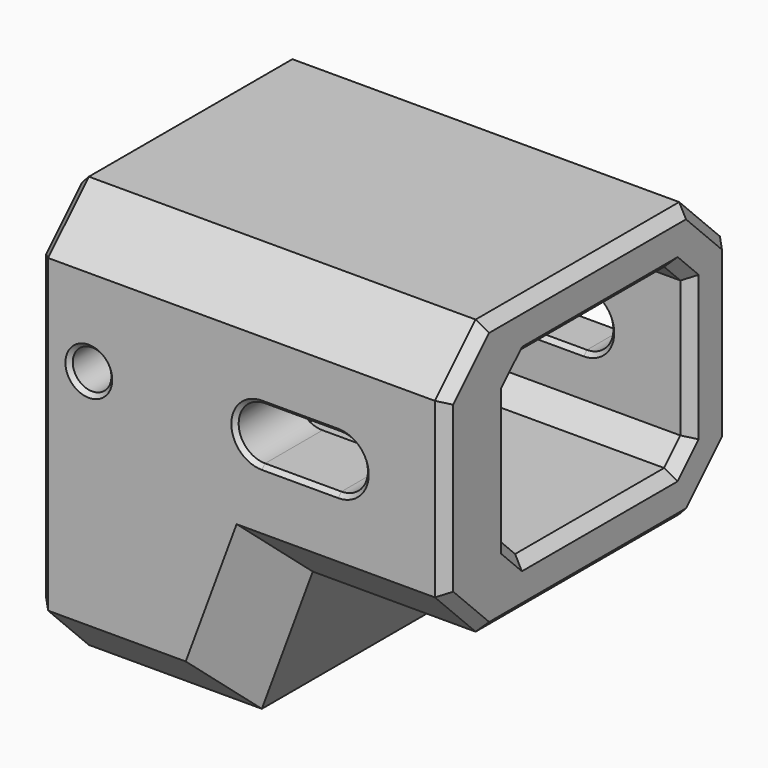
from build123d import *

# Parameters (mm, degrees)
SKETCH006_W     = 35
SKETCH006_H     = 40.5
PAD002_DEPTH    = 13
SKETCH007_W     = 8.1
SKETCH007_H     = 19.3
PAD003_DEPTH    = 6
SKETCH008_W     = 8.1
SKETCH008_H     = 7
PAD004_DEPTH    = 7
SKETCH009_W     = 35
SKETCH009_H     = 40.5
SKETCH009_W_2   = 22.3
SKETCH009_H_2   = 17.4
PAD005_DEPTH    = 27
POCKET004_DEPTH = 35.001
CHAMFER_SIZE    = 5
CHAMFER001_SIZE = 2
POCKET005_DEPTH = 35.001
CHAMFER002_SIZE = 1
CHAMFER003_SIZE = 0.4
SKETCH017_R     = 1.9
POCKET007_DEPTH = 35.001
CHAMFER008_SIZE = 0.4


with BuildPart() as part:
    # Sketch006 → Pad002 (new body)
    with BuildSketch(Plane.YZ):
        with Locations((7.5, 15.25)):
            Rectangle(SKETCH006_W, SKETCH006_H)
        Polygon((-8.1, 19.1), (0, 19.1), (0, 27.1), (3, 27.1), (3, 30.6), (15, 30.6), (15, 3.2), (10.15, 3.2), (10.15, -0.2), (-8.1, -0.2), align=None, mode=Mode.SUBTRACT)
    extrude(amount=PAD002_DEPTH)

    # Sketch007 (on Face16 of Pad002) → Pad003 (join)
    with BuildSketch(Plane.YZ.offset(13)):
        with Locations((-4.05, 9.45)):
            Rectangle(SKETCH007_W, SKETCH007_H)
    extrude(amount=-PAD003_DEPTH)

    # Sketch008 (on Face4 of Pad003) → Pad004 (join)
    with BuildSketch(Plane(origin=(0, 0, 0), x_dir=(0, 1, 0), z_dir=(-1, 0, 0))):
        with Locations((-4.05, -3.3)):
            Rectangle(SKETCH008_W, SKETCH008_H)
    extrude(amount=-PAD004_DEPTH)

    # Sketch009 (on Face5 of Pad004) → Pad005 (join)
    with BuildSketch(Plane.YZ.offset(13)):
        with Locations((7.5, 15.25)):
            Rectangle(SKETCH009_W, SKETCH009_H)
        with Locations((9, 21.95)):
            Rectangle(SKETCH009_W_2, SKETCH009_H_2, mode=Mode.SUBTRACT)
    extrude(amount=PAD005_DEPTH)

    # Sketch011 (on Face8 of Pad005) → Pocket004 (cut, through all)
    with BuildSketch(Plane(origin=(0, -10, 0), x_dir=(0, 0, -1), z_dir=(0, -1, 0))):
        Polygon((5, 18), (-8.5, 23), (-8.5, 40), (5, 40), align=None)
    extrude(amount=-POCKET004_DEPTH, mode=Mode.SUBTRACT)

    # Chamfer
    chamfer_edges = [part.edges().sort_by_distance(p)[0] for p in [
        (9, -10, -5),
        (20.5, -10, 1.75),
        (31.5, -10, 8.5),
        (9, 25, -5),
        (20.5, 25, 1.75),
        (31.5, 25, 8.5),
        (20, -10, 35.5),
        (20, 25, 35.5),
    ]]
    chamfer(chamfer_edges, length=CHAMFER_SIZE)

    # Chamfer001
    chamfer001_edges = [part.edges().sort_by_distance(p)[0] for p in [
        (26.5, -2.15, 30.65),
        (26.5, 20.15, 30.65),
        (26.5, 20.15, 13.25),
        (26.5, -2.15, 13.25),
    ]]
    chamfer(chamfer001_edges, length=CHAMFER001_SIZE)

    # Sketch012 (on Face10 of Chamfer001) → Pocket005 (cut, through all)
    with BuildSketch(Plane(origin=(0, -10, 0), x_dir=(0, 0, -1), z_dir=(0, -1, 0))):
        with BuildLine():
            ThreePointArc((-24.6, 22), (-22, 19.4), (-19.4, 22))
            Line((-19.4, 22), (-19.4, 29.5))
            ThreePointArc((-19.4, 29.5), (-22, 32.1), (-24.6, 29.5))
            Line((-24.6, 22), (-24.6, 29.5))
        make_face()
    extrude(amount=-POCKET005_DEPTH, mode=Mode.SUBTRACT)

    # Chamfer002
    chamfer002_edges = [part.edges().sort_by_distance(p)[0] for p in [
        (0, -10, 15.25),
        (0, -7.5, -2.5),
        (0, 7.5, -5),
        (0, 22.5, -2.5),
        (0, 25, 15.25),
        (0, 22.5, 33),
        (0, 7.5, 35.5),
        (0, -7.5, 33),
        (40, -2.15, 21.95),
        (40, -1.15, 14.25),
        (40, -1.15, 29.65),
        (40, 9, 13.25),
        (40, 9, 30.65),
        (40, 19.15, 14.25),
        (40, 19.15, 29.65),
        (40, 20.15, 21.95),
        (40, -10, 22),
        (40, -7.5, 11),
        (40, -7.5, 33),
        (40, 7.5, 8.5),
        (40, 7.5, 35.5),
        (40, 22.5, 11),
        (40, 22.5, 33),
        (40, 25, 22),
    ]]
    chamfer(chamfer002_edges, length=CHAMFER002_SIZE)

    # Chamfer003
    chamfer003_edges = [part.edges().sort_by_distance(p)[0] for p in [
        (25.75, -10, 24.6),
        (25.75, 25, 24.6),
        (25.75, 20.15, 24.6),
        (25.75, -2.15, 24.6),
    ]]
    chamfer(chamfer003_edges, length=CHAMFER003_SIZE)

    # Sketch017 (on Face55 of Chamfer003) → Pocket007 (cut, through all)
    with BuildSketch(Plane(origin=(0, -10, 0), x_dir=(0, 0, -1), z_dir=(0, -1, 0))):
        with Locations((-22, 5)):
            Circle(SKETCH017_R)
    extrude(amount=-POCKET007_DEPTH, mode=Mode.SUBTRACT)

    # Chamfer008
    chamfer008_edges = [part.edges().sort_by_distance(p)[0] for p in [
        (5, -10, 23.9),
        (5, 0, 23.9),
        (5, 15, 23.9),
        (5, 25, 23.9),
    ]]
    chamfer(chamfer008_edges, length=CHAMFER008_SIZE)


solid = part.part
